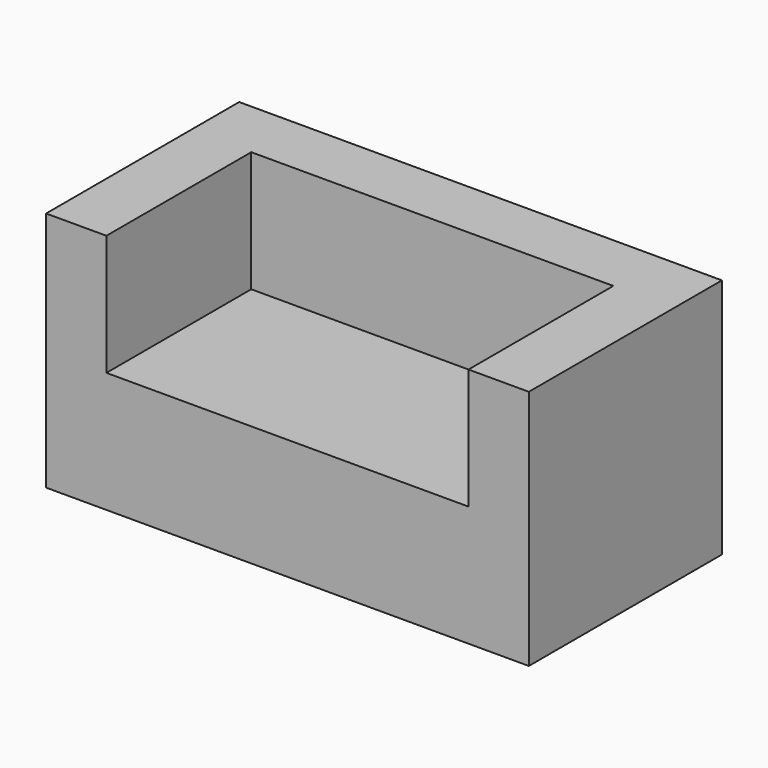
from build123d import *

# Parameters (mm, degrees)
F0_W     = 152.4
F0_H     = 50.8
F1_DEPTH = 101.6
F2_W     = 152.4
F2_H     = 50.8
F3_DEPTH = 76.2


with BuildPart() as f1:
    # F0 (on Front) → F1 (new body)
    with BuildSketch(Plane.XZ):
        Polygon((-66.909775, 56.523943), (-66.909775, -45.076057), (136.290225, -45.076057), (136.290225, 56.523943), (110.890225, 56.523943), (110.890225, 5.723943), (-41.509775, 5.723943), (-41.509775, 56.523943), align=None)
        with Locations((34.690225, 31.123943)):
            Rectangle(F0_W, F0_H)
    extrude(amount=F1_DEPTH)

    # F2 (on face) → F3 (cut)
    with BuildSketch(Plane.XZ.offset(101.6)):
        with Locations((34.690225, 31.123943)):
            Rectangle(F2_W, F2_H)
    extrude(amount=-F3_DEPTH, mode=Mode.SUBTRACT)


solid = f1.part
